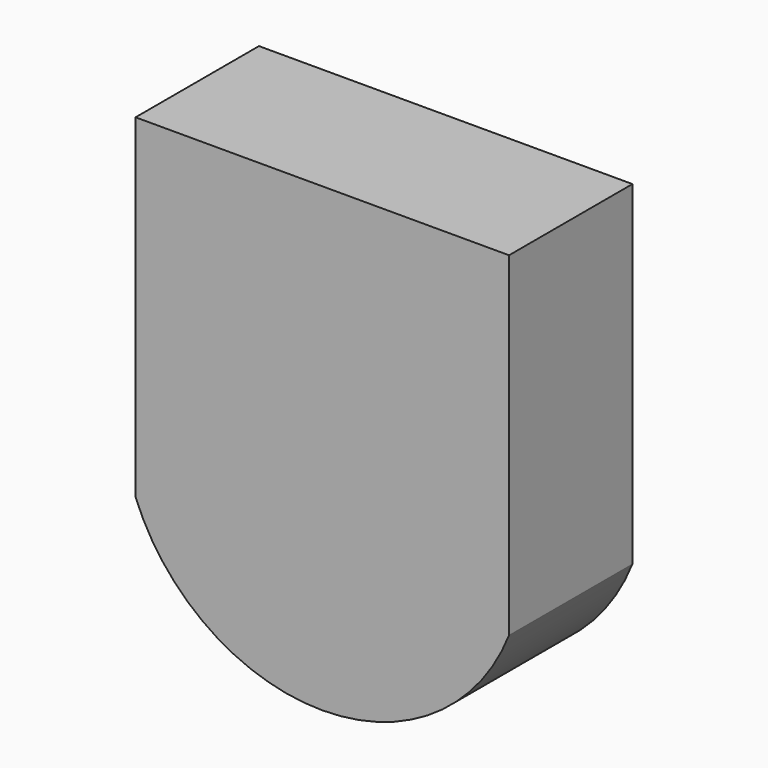
from build123d import *

# Parameters (mm, degrees)
F0_R     = 2.5
F1_DEPTH = 4
F2_DEPTH = 1.27


with BuildPart() as f1:
    # F0 (on Front) → F1 (new body)
    with BuildSketch(Plane.XZ):
        with BuildLine():
            Line((-6.381208, 11.43), (-6.381208, 0))
            ThreePointArc((-6.381208, 0), (0, -4.335854), (6.381208, 0))
            Line((6.381208, 0), (6.381208, 11.43))
            Line((6.381208, 11.43), (-6.381208, 11.43))
        make_face()
        Circle(F0_R, mode=Mode.SUBTRACT)
    extrude(amount=-F1_DEPTH)

    # F0 (on Front) → F2 (join)
    with BuildSketch(Plane.XZ):
        with BuildLine():
            Line((-6.381208, 11.43), (-6.381208, 0))
            ThreePointArc((-6.381208, 0), (0, -4.335854), (6.381208, 0))
            Line((6.381208, 0), (6.381208, 11.43))
            Line((6.381208, 11.43), (-6.381208, 11.43))
        make_face()
        Circle(F0_R, mode=Mode.SUBTRACT)
        Circle(F0_R)
    extrude(amount=F2_DEPTH)


solid = f1.part
